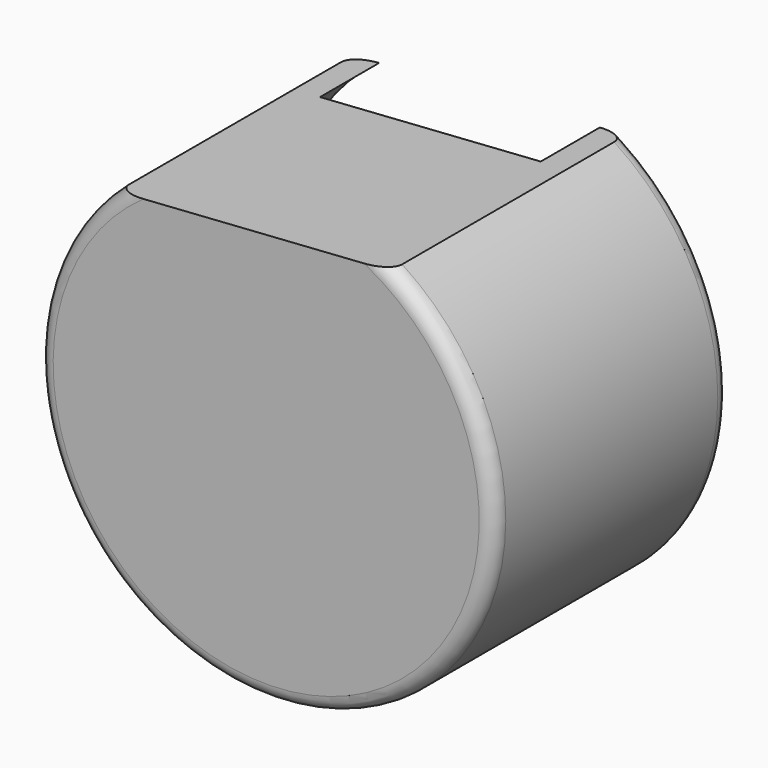
from build123d import *

# Parameters (mm, degrees)
F1_DEPTH = 101.3275142759
F2_R     = 5.08
F3_R     = 5.08
F4_R     = 33.6683926693
F5_DEPTH = 25.4


with BuildPart() as f1:
    # F0 (on Front) → F1 (new body)
    with BuildSketch(Plane.XZ):
        with BuildLine():
            Line((32.1733355522, 64.3209666014), (-61.8066638708, 57.9346120358))
            ThreePointArc((-61.8066638708, 57.9346120358), (-5.2566823209, -79.5545167495), (32.1733355522, 64.3209666014))
        make_face()
    extrude(amount=F1_DEPTH)

    # F2
    f2_edges = [f1.edges().sort_by_distance(p)[0] for p in [
        (-5.256682, -101.327514, -79.554517),
    ]]
    fillet(f2_edges, radius=F2_R)

    # F3
    f3_edges = [f1.edges().sort_by_distance(p)[0] for p in [
        (-5.256682, 0, -79.554517),
    ]]
    fillet(f3_edges, radius=F3_R)

    # F4 (on face) → F5 (cut)
    with BuildSketch(Plane(origin=(0, 0, 0), x_dir=(-1, 0, 0), z_dir=(0, 1, 0))):
        with BuildLine():
            ThreePointArc((-23.146174833, 63.7075313021), (5.6010963761, -74.4862054964), (52.7795031516, 58.548047335))
            Line((52.7795031516, 58.548047335), (-23.146174833, 63.7075313021))
        make_face()
        with Locations((17.5497084856, -14.8196211085)):
            Circle(F4_R, mode=Mode.SUBTRACT)
    extrude(amount=-F5_DEPTH, mode=Mode.SUBTRACT)


solid = f1.part
